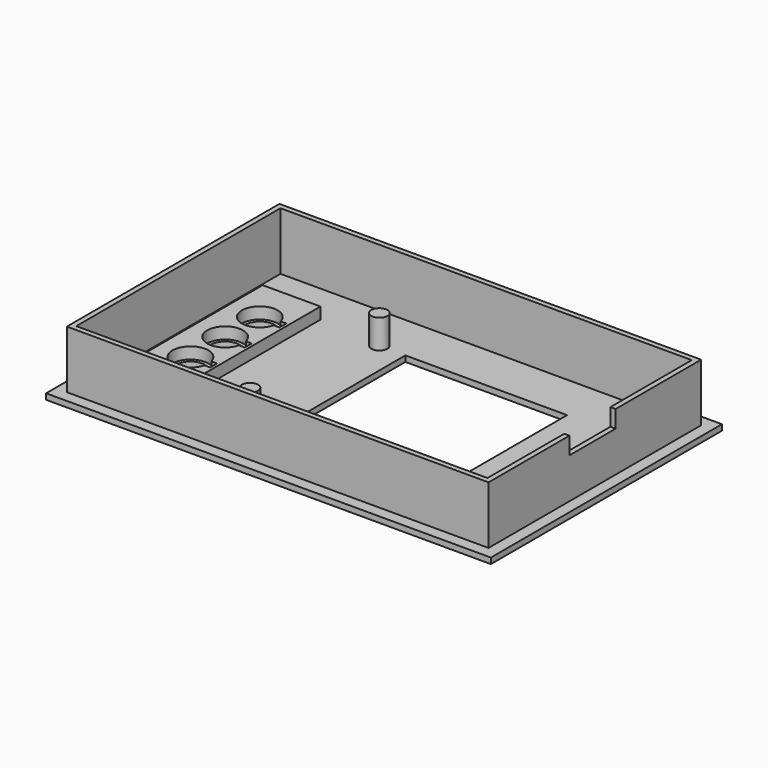
from build123d import *

# Parameters (mm, degrees)
SKETCH028_W     = 77
SKETCH028_H     = 50
SKETCH028_R     = 2.5
SKETCH028_W_2   = 28
SKETCH028_H_2   = 28
PAD018_DEPTH    = 1
SKETCH029_R     = 1.4
PAD019_DEPTH    = 5
SKETCH030_W     = 73
SKETCH030_H     = 46
SKETCH030_W_2   = 71.2
SKETCH030_H_2   = 44.2
PAD020_DEPTH    = 10
SKETCH031_W     = 10
SKETCH031_H     = 3
POCKET004_DEPTH = 5
SKETCH032_W     = 10
SKETCH032_H     = 30
PAD021_DEPTH    = 2


with BuildPart() as part:
    # Sketch028 → Pad018 (new body)
    with BuildSketch(Plane.XY):
        with Locations((38.5, 25)):
            Rectangle(SKETCH028_W, SKETCH028_H)
        with Locations((11, 32.5)):
            Circle(SKETCH028_R, mode=Mode.SUBTRACT)
        with Locations((11, 25)):
            Circle(SKETCH028_R, mode=Mode.SUBTRACT)
        with Locations((11, 17.5)):
            Circle(SKETCH028_R, mode=Mode.SUBTRACT)
        with Locations((45, 25)):
            Rectangle(SKETCH028_W_2, SKETCH028_H_2, mode=Mode.SUBTRACT)
    extrude(amount=PAD018_DEPTH)

    # Sketch029 → Pad019 (join)
    with BuildSketch(Plane.XY.offset(1)):
        with Locations((26.5, 39)):
            Circle(SKETCH029_R)
        with Locations((69.5, 39)):
            Circle(SKETCH029_R)
        with Locations((69.5, 11)):
            Circle(SKETCH029_R)
        with Locations((26.5, 11)):
            Circle(SKETCH029_R)
    extrude(amount=PAD019_DEPTH)

    # Sketch030 → Pad020 (join)
    with BuildSketch(Plane.XY.offset(1)):
        with Locations((38.5, 25)):
            Rectangle(SKETCH030_W, SKETCH030_H)
        with Locations((38.5, 25)):
            Rectangle(SKETCH030_W_2, SKETCH030_H_2, mode=Mode.SUBTRACT)
    extrude(amount=PAD020_DEPTH)

    # Sketch031 (on Face16 of Pad020) → Pocket004 (cut)
    with BuildSketch(Plane.YZ.offset(75)):
        with Locations((24.5, 9.5)):
            Rectangle(SKETCH031_W, SKETCH031_H)
    extrude(amount=-POCKET004_DEPTH, mode=Mode.SUBTRACT)

    # Sketch032 (on Face18 of Pocket004) → Pad021 (join)
    with BuildSketch(Plane.XY.offset(1)):
        with Locations((10.5, 25)):
            Rectangle(SKETCH032_W, SKETCH032_H)
        with BuildLine():
            ThreePointArc((14.007906, 33.25), (7.9, 32.5), (14.007906, 31.75))
            Line((15.007906, 31.75), (14.007906, 31.75))
            Line((15.007906, 33.25), (15.007906, 31.75))
            Line((14.007906, 33.25), (15.007906, 33.25))
        make_face(mode=Mode.SUBTRACT)
        with BuildLine():
            ThreePointArc((14.007906, 25.75), (7.9, 25), (14.007906, 24.25))
            Line((15.007906, 24.25), (14.007906, 24.25))
            Line((15.007906, 25.75), (15.007906, 24.25))
            Line((14.007906, 25.75), (15.007906, 25.75))
        make_face(mode=Mode.SUBTRACT)
        with BuildLine():
            ThreePointArc((14.007906, 18.25), (7.9, 17.5), (14.007906, 16.75))
            Line((15.007906, 16.75), (14.007906, 16.75))
            Line((15.007906, 18.25), (15.007906, 16.75))
            Line((14.007906, 18.25), (15.007906, 18.25))
        make_face(mode=Mode.SUBTRACT)
    extrude(amount=PAD021_DEPTH)


solid = part.part
